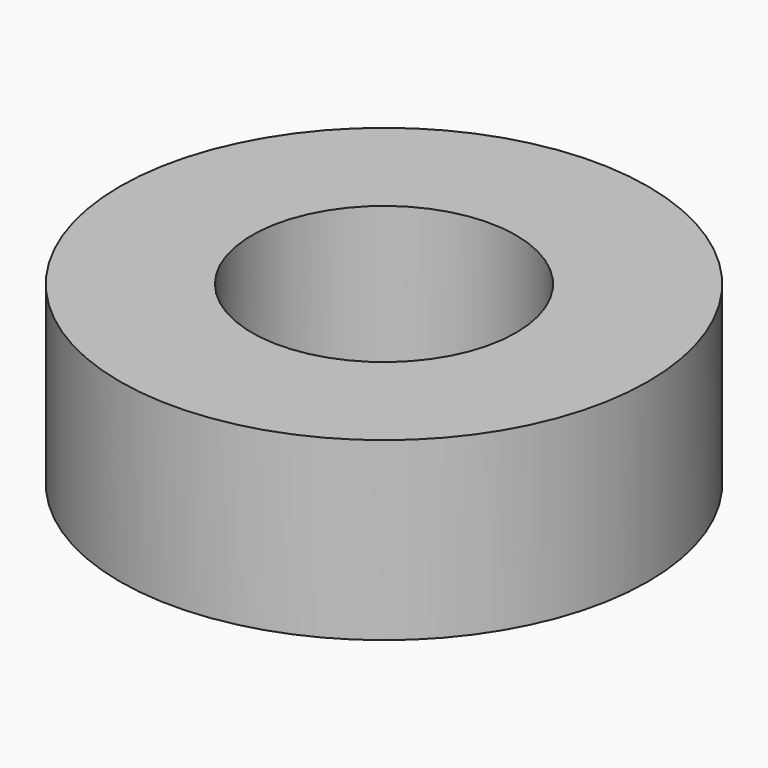
from build123d import *

# Parameters (mm, degrees)
F0_R     = 38.1
F0_R_2   = 31.75
F0_R_3   = 25.4
F0_R_4   = 19.05
F1_DEPTH = 25.4


with BuildPart() as f1:
    # F0 (on Top) → F1 (new body)
    with BuildSketch(Plane.XY):
        Circle(F0_R)
        Circle(F0_R_2, mode=Mode.SUBTRACT)
        Circle(F0_R_2)
        Circle(F0_R_3, mode=Mode.SUBTRACT)
        Circle(F0_R_3)
        Circle(F0_R_4, mode=Mode.SUBTRACT)
    extrude(amount=F1_DEPTH)


solid = f1.part
